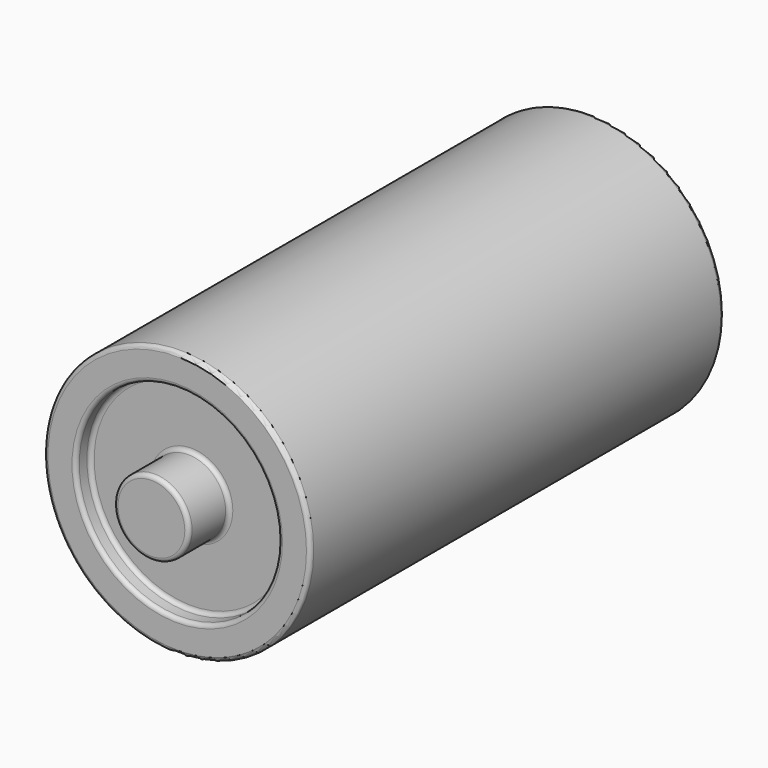
from build123d import *

# Parameters (mm, degrees)
F2_R = 0.25


with BuildPart() as f1:
    # F0 (on Top) → F1 (revolve)
    with BuildSketch(Plane.XY):
        Polygon((8.25, 24.126262), (0, 24.126262), (0, -9.873738), (2.318181, -9.873738), (2.318181, -6.782828), (6.267677, -6.782828), (6.267677, -7.873738), (8.25, -7.873738), align=None)
    revolve(axis=Axis((0, 7.126262, 0), (0, 1, 0)))

    # F2
    f2_edges = [f1.edges().sort_by_distance(p)[0] for p in [
        (-8.25, 24.126262, 0),
        (-8.25, -7.873738, 0),
        (-6.267677, -7.873738, 0),
        (-6.267677, -6.782828, 0),
        (-2.318181, -6.782828, 0),
        (-2.318181, -9.873738, 0),
    ]]
    fillet(f2_edges, radius=F2_R)


solid = f1.part
